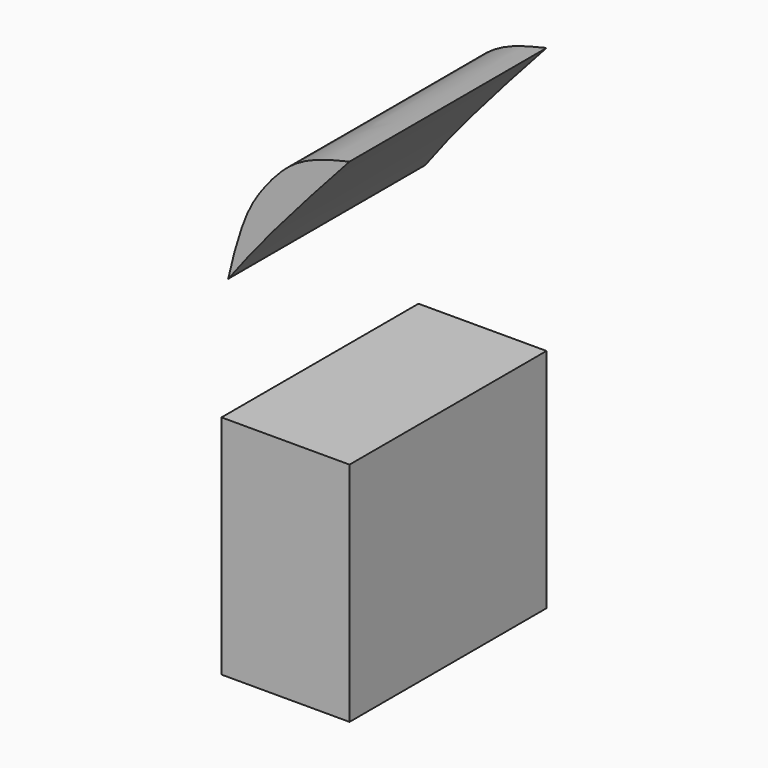
from build123d import *

# Parameters (mm, degrees)
F1_DEPTH = 25


with BuildPart() as f1:
    # F0 (on Front) → F1 (new body)
    with BuildSketch(Plane.XZ):
        Polygon((-13, 0), (0, 0), (0, 23), (-13, 22.9950007051), align=None)
    extrude(amount=F1_DEPTH)


with BuildPart() as f1b:
    # F0 (on Front) → F1, piece 2 (new body)
    with BuildSketch(Plane.XZ):
        with BuildLine():
            add(Edge.make_bspline(
                [(-12.3191955169, 35.5989873608), (-11.8586507551, 37.7477160795), (-10.6638718821, 41.8963955823), (-9.5950873234, 43.6730051345), (-8.8199973106, 44.7299964726)],
                knots=[0.3274203544, 0.3274203544, 0.3274203544, 0.3274203544, 0.4802626372, 0.6371062783, 0.6371062783, 0.6371062783, 0.6371062783], degree=3))
            add(Edge.make_bspline(
                [(-12.3191955169, 35.5989873608), (-8.7536784852, 40.4430165158), (-4.3768392426, 45.2640086048), (0, 50.0850006938)],
                knots=[0.7069793713, 0.7069793713, 0.7069793713, 0.7069793713, 1, 1, 1, 1], degree=3))
            add(Edge.make_bspline(
                [(-5.3550023586, 48.1950007379), (-3.7968009273, 49.1792932798), (-1.8984004636, 49.6321469868), (0, 50.0850006938)],
                knots=[0.8118678436, 0.8118678436, 0.8118678436, 0.8118678436, 1, 1, 1, 1], degree=3))
            add(Edge.make_bspline(
                [(-8.8199973106, 44.7299964726), (-7.6649989933, 45.8849978944), (-6.5100006759, 47.0399993161), (-5.3550023586, 48.1950007379)],
                knots=[0, 0, 0, 0, 4.9002494402, 4.9002494402, 4.9002494402, 4.9002494402], degree=3))
        make_face()
        with BuildLine():
            add(Edge.make_bspline(
                [(-8.8199973106, 44.7299964726), (-7.9563604885, 45.907739219), (-6.8024620925, 47.2806620701), (-5.3550023586, 48.1950007379)],
                knots=[0.6371062783, 0.6371062783, 0.6371062783, 0.6371062783, 0.8118678436, 0.8118678436, 0.8118678436, 0.8118678436], degree=3))
            add(Edge.make_bspline(
                [(-8.8199973106, 44.7299964726), (-7.6649989933, 45.8849978944), (-6.5100006759, 47.0399993161), (-5.3550023586, 48.1950007379)],
                knots=[0, 0, 0, 0, 4.9002494402, 4.9002494402, 4.9002494402, 4.9002494402], degree=3))
        make_face()
    extrude(amount=F1_DEPTH)


solid = Compound([f1.part, f1b.part])
